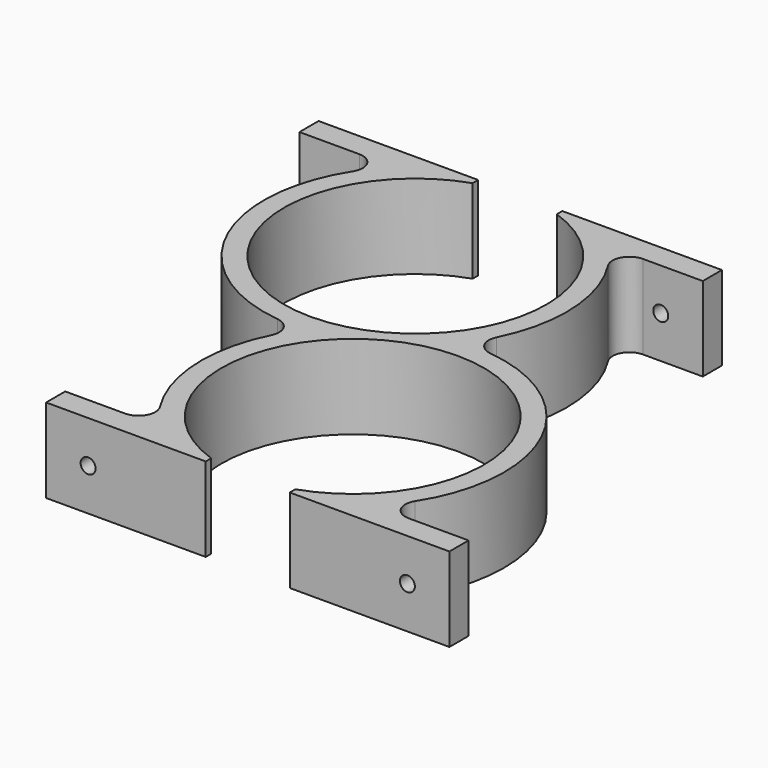
from build123d import *

# Parameters (mm, degrees)
F1_DEPTH       = 12.7
F6_D           = 2.2606
F6_DEPTH       = 12.7
F6_TIP         = 0.6791527577
F6_ON_F5_D     = 2.2606
F6_ON_F5_DEPTH = 12.7
F6_ON_F5_TIP   = 0.6791527577
F6_ON_F2_D     = 2.2606
F6_ON_F2_DEPTH = 12.7
F6_ON_F2_TIP   = 0.6791527577
F6_ON_F3_D     = 2.2606
F6_ON_F3_DEPTH = 12.7
F6_ON_F3_TIP   = 0.6791527577


with BuildPart() as f1:
    # F0 (on Top) → F1 (new body)
    with BuildSketch(Plane.XY):
        with BuildLine():
            Line((0.2285717149, -38.1), (19.2785717149, -38.1))
            Line((19.2785717149, -38.1), (19.2785717149, -34.4883422186))
            Line((19.2785717149, -34.4883422186), (10.2378985351, -34.4883422186))
            ThreePointArc((10.2378985351, -34.4883422186), (8.0106438434, -33.1693813409), (8.0965086816, -30.5823079967))
            ThreePointArc((8.0965086816, -30.5823079967), (9.4676308494, -8.4686260202), (-8.553227146, 4.4210436293))
            ThreePointArc((-8.553227146, 4.4210436293), (-10.495209535, 5.7345115019), (-10.534427146, 8.0786436293))
            ThreePointArc((-10.534427146, 8.0786436293), (-8.1594188782, 19.4861168414), (-11.7154913184, 30.5823079967))
            ThreePointArc((-11.7154913184, 30.5823079967), (-11.8013561566, 33.1693813409), (-9.5741014649, 34.4883422186))
            Line((-9.5741014649, 34.4883422186), (-0.5334282851, 34.4883422186))
            Line((-0.5334282851, 34.4883422186), (-0.5334282851, 38.1))
            Line((-0.5334282851, 38.1), (-24.638, 38.1))
            Line((-24.638, 38.1), (-24.638, 37.0548016455))
            ThreePointArc((-24.638, 37.0548016455), (-30.988, -1.524), (-37.338, 37.0548016455))
            Line((-37.338, 37.0548016455), (-37.338, 38.1))
            Line((-37.338, 38.1), (-61.4425717149, 38.1))
            Line((-61.4425717149, 38.1), (-61.4425717149, 34.4883422186))
            Line((-61.4425717149, 34.4883422186), (-52.4018985351, 34.4883422186))
            ThreePointArc((-52.4018985351, 34.4883422186), (-50.1746438434, 33.1693813409), (-50.2605086816, 30.5823079967))
            ThreePointArc((-50.2605086816, 30.5823079967), (-53.8420790586, 18.8082599192), (-50.8, 6.8834282851))
            ThreePointArc((-50.8, 6.8834282851), (-43.5489525741, -0.8117924185), (-33.610772854, -4.4210436293))
            ThreePointArc((-33.610772854, -4.4210436293), (-31.668790465, -5.7345115019), (-31.629572854, -8.0786436293))
            ThreePointArc((-31.629572854, -8.0786436293), (-34.0045811218, -19.4861168414), (-30.4485086816, -30.5823079967))
            ThreePointArc((-30.4485086816, -30.5823079967), (-30.3626438434, -33.1693813409), (-32.5898985351, -34.4883422186))
            Line((-32.5898985351, -34.4883422186), (-41.6305717149, -34.4883422186))
            Line((-41.6305717149, -34.4883422186), (-41.6305717149, -38.1))
            Line((-41.6305717149, -38.1), (-22.5805717149, -38.1))
            Line((-22.5805717149, -38.1), (-17.526, -38.1))
            Line((-17.526, -38.1), (-17.526, -37.0548016455))
            ThreePointArc((-17.526, -37.0548016455), (-11.176, 1.524), (-4.826, -37.0548016455))
            Line((-4.826, -37.0548016455), (-4.826, -38.1))
            Line((-4.826, -38.1), (0.2285717149, -38.1))
        make_face()
    extrude(amount=F1_DEPTH)

    # F6
    with Locations(Plane(origin=(0, 38.1, 0), x_dir=(-1, 0, 0), z_dir=(0, 1, 0))):
        with Locations((55.0925717149, 6.35)):
            Hole(F6_D / 2, depth=F6_DEPTH)
            with Locations((0, 0, -(F6_DEPTH + F6_TIP / 2))):  # 118° drill point
                Cone(0, F6_D / 2, F6_TIP, mode=Mode.SUBTRACT)

    # F6 on F5
    with Locations(Plane(origin=(0, 38.1, 0), x_dir=(-1, 0, 0), z_dir=(0, 1, 0))):
        with Locations((6.8834282851, 6.35)):
            Hole(F6_ON_F5_D / 2, depth=F6_ON_F5_DEPTH)
            with Locations((0, 0, -(F6_ON_F5_DEPTH + F6_ON_F5_TIP / 2))):  # 118° drill point
                Cone(0, F6_ON_F5_D / 2, F6_ON_F5_TIP, mode=Mode.SUBTRACT)

    # F6 on F2
    with Locations(Plane.XZ.offset(38.1)):
        with Locations((-35.2805717149, 6.35)):
            Hole(F6_ON_F2_D / 2, depth=F6_ON_F2_DEPTH)
            with Locations((0, 0, -(F6_ON_F2_DEPTH + F6_ON_F2_TIP / 2))):  # 118° drill point
                Cone(0, F6_ON_F2_D / 2, F6_ON_F2_TIP, mode=Mode.SUBTRACT)

    # F6 on F3
    with Locations(Plane.XZ.offset(38.1)):
        with Locations((12.9285717149, 6.35)):
            Hole(F6_ON_F3_D / 2, depth=F6_ON_F3_DEPTH)
            with Locations((0, 0, -(F6_ON_F3_DEPTH + F6_ON_F3_TIP / 2))):  # 118° drill point
                Cone(0, F6_ON_F3_D / 2, F6_ON_F3_TIP, mode=Mode.SUBTRACT)


solid = f1.part
